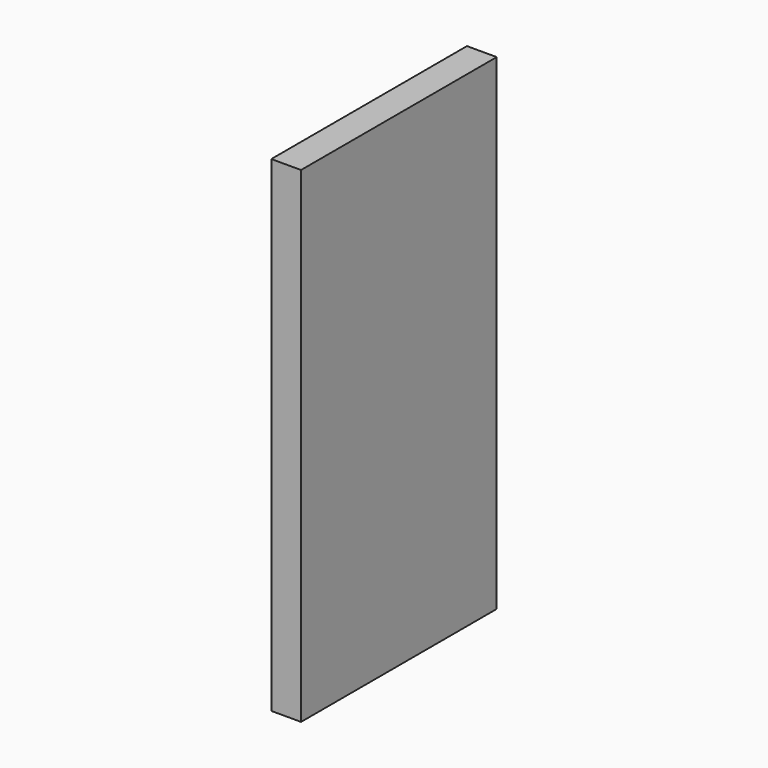
from build123d import *

# Parameters (mm, degrees)
SKETCH_W  = 148
SKETCH_H  = 294
PAD_DEPTH = 18


with BuildPart() as part:
    # Sketch → Pad (new body)
    with BuildSketch(Plane.YZ):
        Rectangle(SKETCH_W, SKETCH_H)
    extrude(amount=PAD_DEPTH)


solid = part.part
